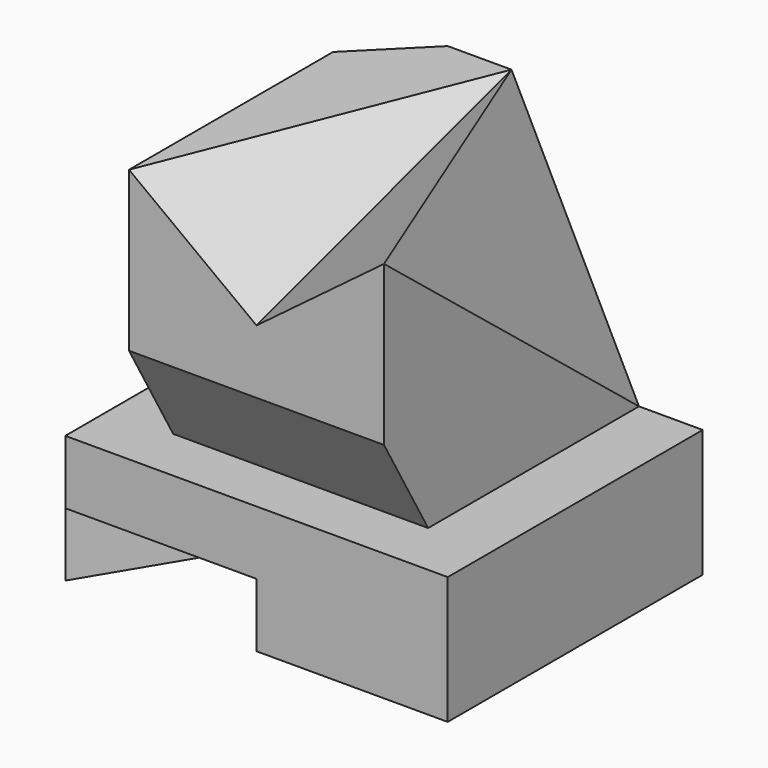
from build123d import *

# Parameters (mm, degrees)
F0_W      = 60
F0_H      = 50
F1_DEPTH  = 20
F2_W      = 40
F2_H      = 50
F3_DEPTH  = 40
F5_DEPTH  = 10
F10_DEPTH = 40
F12_DEPTH = 50.001


with BuildPart() as f1:
    # F0 (on Top) → F1 (new body)
    with BuildSketch(Plane.XY):
        with Locations((30, 25)):
            Rectangle(F0_W, F0_H)
    extrude(amount=F1_DEPTH)

    # F2 (on face) → F3 (join)
    with BuildSketch(Plane.XY.offset(20)):
        with Locations((30, 25)):
            Rectangle(F2_W, F2_H)
    extrude(amount=F3_DEPTH)

    # F4 (on face) → F5 (cut)
    with BuildSketch(Plane(origin=(0, 0, 0), x_dir=(1, 0, 0), z_dir=(0, 0, -1))):
        Polygon((30, 0), (0, 0), (30, -50), (60, -50), align=None)
    extrude(amount=-F5_DEPTH, mode=Mode.SUBTRACT)

    # F8: sweep along a path in F7
    with BuildLine(Plane.YZ.offset(50)) as f8_path:
        Line((0, 45), (50, 60))
    # F6 (on face) → F8 (sweep, cut)
    with BuildSketch(Plane.XZ):
        Polygon((50, 60), (10, 60), (30, 45), align=None)
    sweep(path=f8_path.line, mode=Mode.SUBTRACT)

    # F9 (on face) → F10 (cut)
    with BuildSketch(Plane.XY.offset(60)):
        Polygon((20, 50), (10, 50), (10, 40), align=None)
    extrude(amount=-F10_DEPTH, mode=Mode.SUBTRACT)

    # F11 (on face) → F12 (cut, through all)
    with BuildSketch(Plane(origin=(10, 0, 0), x_dir=(0, -1, 0), z_dir=(-1, 0, 0))):
        Polygon((0, 20), (0, 35), (-8.660254, 20), align=None)
    extrude(amount=-F12_DEPTH, mode=Mode.SUBTRACT)

    # F15: sweep along a path in F14
    with BuildLine(Plane(origin=(0, 50, 0), x_dir=(-1, 0, 0), z_dir=(0, 1, 0))) as f15_path:
        Line((-50, 20), (-30, 60))
    # F13 (on face) → F15 (sweep, cut)
    with BuildSketch(Plane.YZ.offset(50)):
        Polygon((50, 60), (0, 60), (50, 20), align=None)
    sweep(path=f15_path.line, mode=Mode.SUBTRACT)


solid = f1.part
